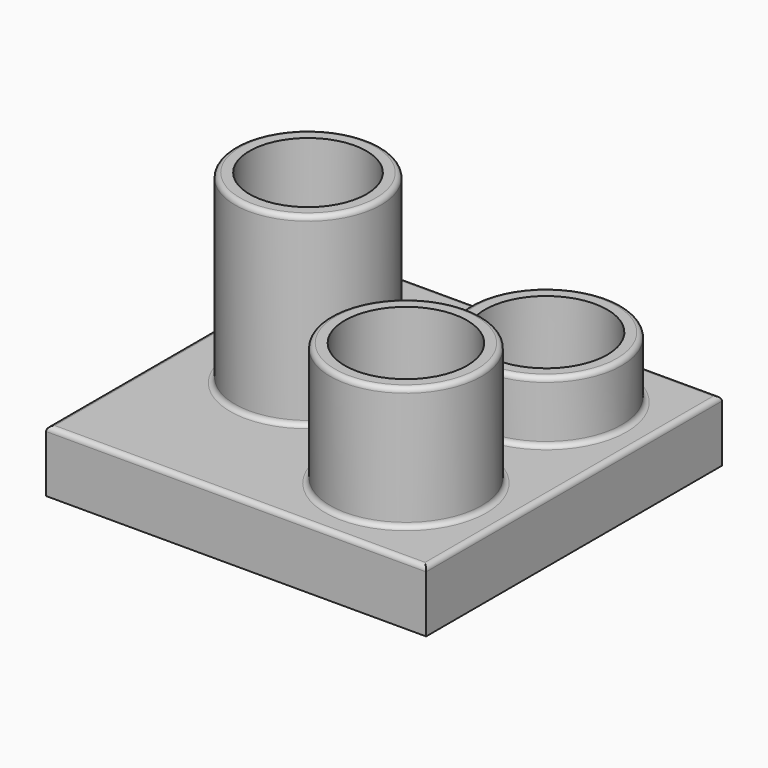
from build123d import *

# Parameters (mm, degrees)
F0_W     = 78.2586932182
F0_H     = 76.1436074972
F0_R     = 15.5959109901
F0_R_2   = 15.0407765594
F2_DEPTH = 12.7
F1_R     = 15.0407765594
F1_R_2   = 15.5959109901
F3_DEPTH = 25.4
F4_DEPTH = 25.4
F5_DEPTH = 12.7
F6_T     = -3
F7_R     = 1


with BuildPart() as f2:
    # F0 (on Top) → F2 (new body)
    with BuildSketch(Plane.XY):
        Rectangle(F0_W, F0_H)
        with Locations((18.483184278, -17.4549240619)):
            Circle(F0_R, mode=Mode.SUBTRACT)
        with Locations((-15.6473219395, 0)):
            Circle(F0_R_2, mode=Mode.SUBTRACT)
        with Locations((18.483184278, 18.6134420495)):
            Circle(F0_R, mode=Mode.SUBTRACT)
    extrude(amount=F2_DEPTH)

    # F1 (on face) → F3 (join)
    with BuildSketch(Plane.XY):
        with Locations((-15.6473219395, 0)):
            Circle(F1_R)
        with Locations((18.483184278, 18.6134420495)):
            Circle(F1_R_2)
        with Locations((18.483184278, -17.4549240619)):
            Circle(F1_R_2)
    extrude(amount=F3_DEPTH)

    # F4 (add): a face of the model
    f4_faces = [f2.faces().sort_by_distance(p)[0] for p in [
        (-15.6473219395, 0, 25.4),
    ]]
    extrude(f4_faces, amount=F4_DEPTH)

    # F5 (add): a face of the model
    f5_faces = [f2.faces().sort_by_distance(p)[0] for p in [
        (18.483184278, -17.4549240619, 25.4),
    ]]
    extrude(f5_faces, amount=F5_DEPTH)

    # F6
    f6_openings = [f2.faces().sort_by_distance(p)[0] for p in [
        (-15.647322, 0, 50.8),
        (18.483184, -17.454924, 38.1),
        (18.483184, 18.613442, 25.4),
    ]]
    offset(amount=F6_T, openings=f6_openings, kind=Kind.INTERSECTION)

    # F7
    f7_edges = [f2.edges().sort_by_distance(p)[0] for p in [
        (-30.688098, 0, 12.7),
        (-0.606545, 0, 31.75),
        (-30.688098, 0, 50.8),
        (2.887273, -17.454924, 12.7),
        (34.079095, -17.454924, 25.4),
        (2.887273, -17.454924, 38.1),
        (2.887273, 18.613442, 12.7),
        (34.079095, 18.613442, 19.05),
        (2.887273, 18.613442, 25.4),
        (39.129347, 0, 12.7),
        (0, 38.071804, 12.7),
        (-39.129347, 0, 12.7),
        (0, -38.071804, 12.7),
    ]]
    fillet(f7_edges, radius=F7_R)


solid = f2.part
